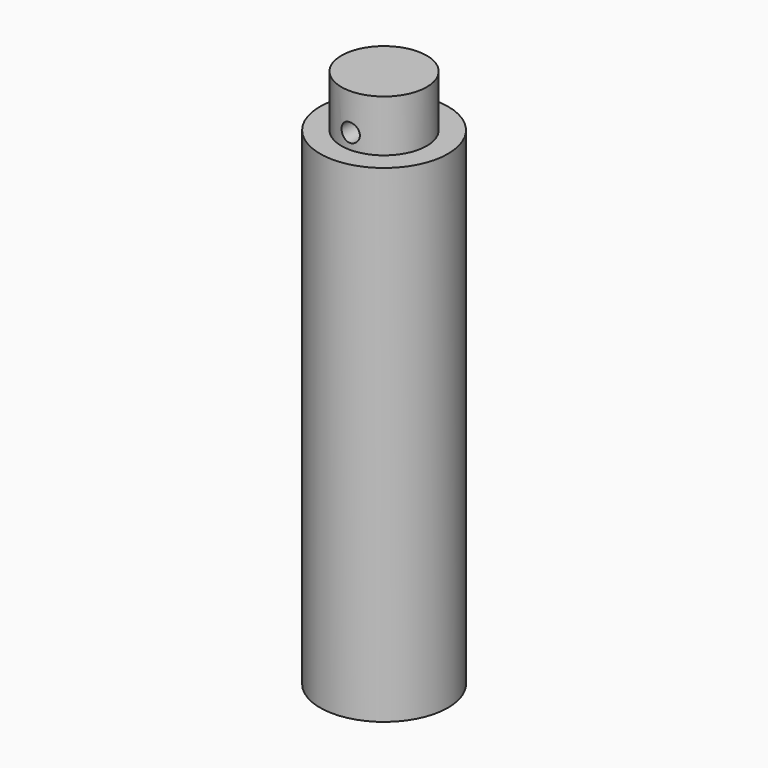
from build123d import *

# Parameters (mm, degrees)
F2_R     = 3
F3_DEPTH = 25


with BuildPart() as f1:
    # F0 (on Front) → F1 (revolve)
    with BuildSketch(Plane.XZ):
        Polygon((16, 47.169506), (16, -72.830494), (21, -72.830494), (21, 87.169506), (14, 87.169506), (14, 97.169506), (14, 104.169506), (0, 104.169506), (0, 101.169506), (6, 97.169506), (6, 47.169506), align=None)
    revolve(axis=Axis((0, 0, -1.18644), (0, 0, -1)))

    # F2 (on Front) → F3 (cut, symmetric)
    with BuildSketch(Plane.XZ):
        with Locations((0, 92.169506)):
            Circle(F2_R)
    extrude(amount=F3_DEPTH, both=True, mode=Mode.SUBTRACT)


solid = f1.part
